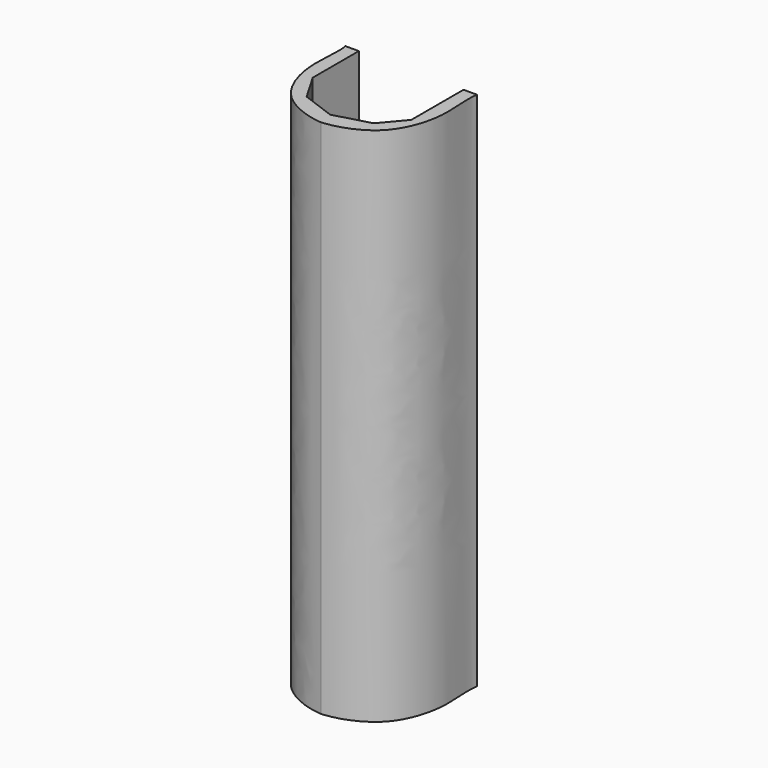
from build123d import *


with BuildPart() as f2:
    # F2: sweep along a path in F1
    with BuildLine(Plane.XZ) as f2_path:
        Line((-20.3742571175, 0), (-20.3742571175, -160.6345772743))
    # F0 (on Top) → F2 (sweep)
    with BuildSketch(Plane.XY):
        with BuildLine():
            add(Edge.make_bspline(
                [(0, 0), (-0.7216110826, -3.1631509773), (1.3627734598, -13.2378862663), (-3.601919144, -28.3026114897), (-13.6056478974, -33.5976328714), (-17.7372051795, -34.4637926501), (-20.3184392303, -34.7392000258)],
                knots=[0, 0, 0, 0, 0.2691787361, 0.5638222538, 0.8040082698, 1, 1, 1, 1], degree=3))
            Line((0, 0), (-4.1956347413, 0))
            Line((-4.1956347413, 0), (-4.1956347413, -20.1209578663))
            Line((-4.1956347413, -20.1209578663), (-10.1489070803, -27.1566435695))
            Line((-10.1489070803, -27.1566435695), (-21.153440699, -30.2234794945))
            Line((-21.153440699, -30.2234794945), (-31.4363650978, -26.4350343496))
            Line((-31.4363650978, -26.4350343496), (-36.4876277745, -17.7757292986))
            Line((-36.4876277745, -17.7757292986), (-36.4876277745, 0))
            Line((-36.4876277745, 0), (-40.6368784606, 0))
            add(Edge.make_bspline(
                [(-40.6368784606, 0), (-39.9152673781, -3.1631509773), (-41.9996519204, -13.2378862663), (-37.0349593167, -28.3026114897), (-27.0312305633, -33.5976328714), (-22.8996732811, -34.4637926501), (-20.3184392303, -34.7392000258)],
                knots=[0, 0, 0, 0, 0.2691787361, 0.5638222538, 0.8040082698, 1, 1, 1, 1], degree=3))
        make_face()
    sweep(path=f2_path.line)


solid = f2.part
